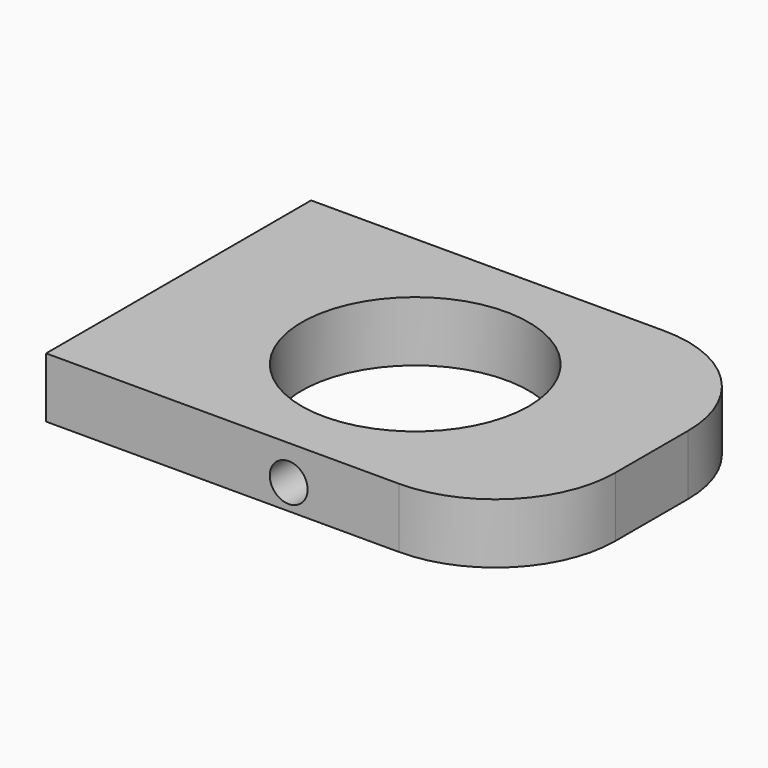
from build123d import *

# Parameters (mm, degrees)
F0_W     = 100
F0_H     = 70
F0_R     = 24
F1_DEPTH = 12.7
F2_R     = 25.4
F4_D     = 8
F4_DEPTH = 12.7


with BuildPart() as f1:
    # F0 (on Top) → F1 (new body)
    with BuildSketch(Plane.XY):
        Rectangle(F0_W, F0_H)
        Circle(F0_R, mode=Mode.SUBTRACT)
    extrude(amount=F1_DEPTH)

    # F2
    f2_edges = [f1.edges().sort_by_distance(p)[0] for p in [
        (50, -35, 6.35),
        (50, 35, 6.35),
    ]]
    fillet(f2_edges, radius=F2_R)

    # F4
    with Locations(Plane.XZ.offset(35)):
        with Locations((1.260702, 5.33683)):
            Hole(F4_D / 2, depth=F4_DEPTH)


solid = f1.part
